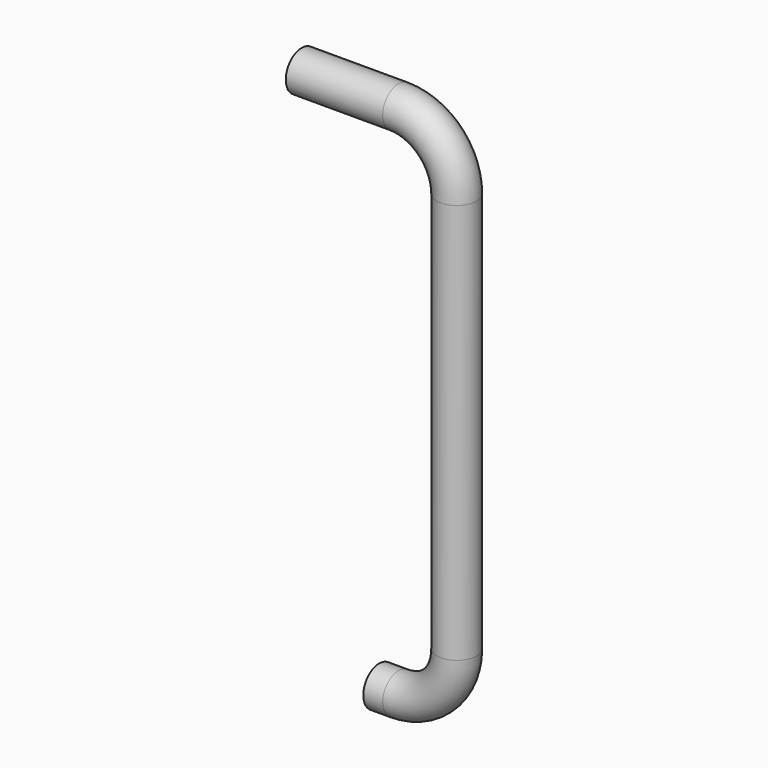
from build123d import *

# Parameters (mm, degrees)
F0_R   = 77
F0_R_2 = 75


with BuildPart() as f2:
    # F2: sweep along a path in F1
    with BuildLine(Plane.XZ) as f2_path:
        Line((0, 0), (375, 0))
        ThreePointArc((375, 0), (534.099026, -65.900974), (600, -225))
        Line((600, -225), (600, -1775))
        ThreePointArc((600, -1775), (534.099026, -1934.099026), (375, -2000))
        Line((375, -2000), (300, -2000))
    # F0 (on Right) → F2 (sweep)
    with BuildSketch(Plane.YZ):
        Circle(F0_R)
        Circle(F0_R_2, mode=Mode.SUBTRACT)
    sweep(path=f2_path.line)


solid = f2.part
